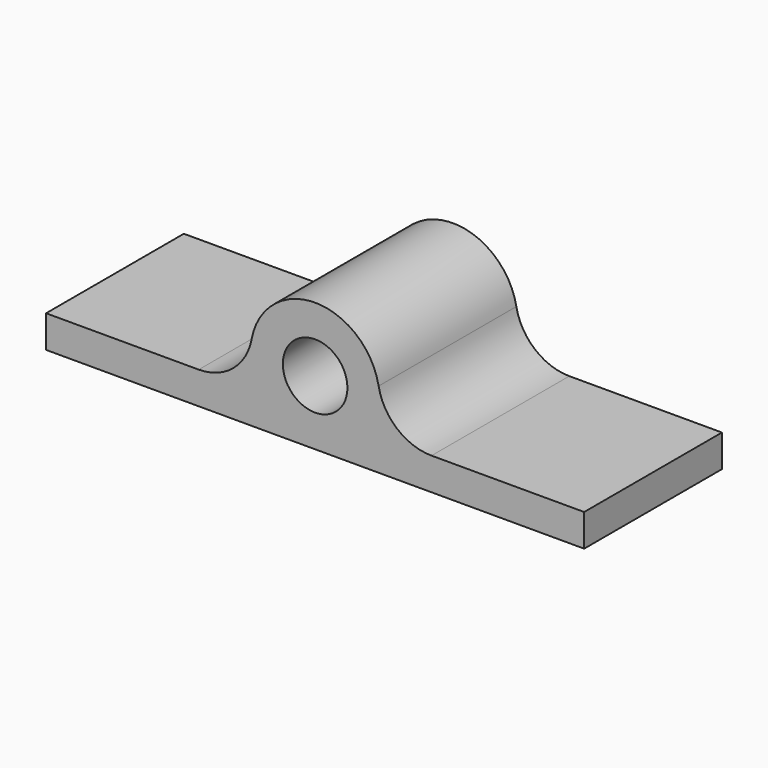
from build123d import *

# Parameters (mm, degrees)
F0_W     = 50
F0_H     = 16
F1_DEPTH = 3
F2_R     = 6
F2_R_2   = 3
F3_DEPTH = 8
F4_R     = 5


with BuildPart() as f1:
    # F0 (on Top) → F1 (new body)
    with BuildSketch(Plane.XY):
        Rectangle(F0_W, F0_H)
    extrude(amount=F1_DEPTH)

    # F2 (on Front) → F3 (join, symmetric)
    with BuildSketch(Plane.XZ):
        with Locations((0, 6)):
            Circle(F2_R)
        with Locations((0, 6)):
            Circle(F2_R_2, mode=Mode.SUBTRACT)
    extrude(amount=F3_DEPTH, both=True)

    # F4
    f4_edges = [f1.edges().sort_by_distance(p)[0] for p in [
        (-5.196152, 0, 3),
        (5.196152, 0, 3),
    ]]
    fillet(f4_edges, radius=F4_R)


solid = f1.part
